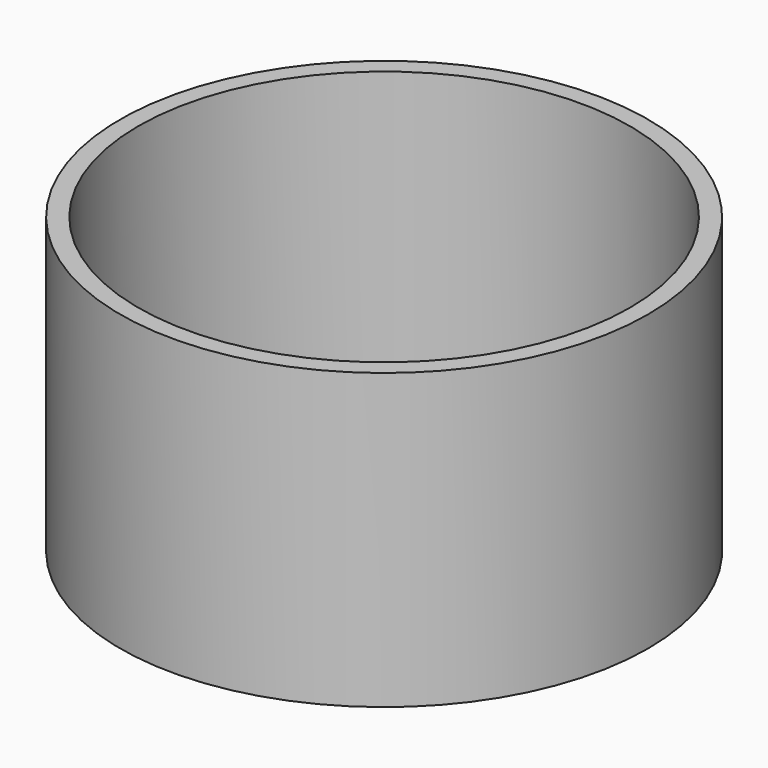
from build123d import *

# Parameters (mm, degrees)
SKETCH_R        = 17.5
PAD_DEPTH       = 20
SKETCH001_R     = 32
POCKET_DEPTH    = 18.5
SKETCH002_R     = 0.75
SKETCH002_W     = 22.6
SKETCH002_H     = 12.2
POCKET001_DEPTH = 5
SKETCH005_R     = 17.5
PAD001_DEPTH    = 18
SKETCH006_R     = 16.3
POCKET002_DEPTH = 18


with BuildPart() as part:
    # Sketch → Pad (new body)
    with BuildSketch(Plane.XY):
        Circle(SKETCH_R)
    extrude(amount=PAD_DEPTH)

    # Sketch001 (on Face3 of Pad) → Pocket (cut)
    with BuildSketch(Plane.XY.offset(20)):
        Circle(SKETCH001_R)
    extrude(amount=-POCKET_DEPTH, mode=Mode.SUBTRACT)

    # Sketch002 (on Face2 of Pocket) → Pocket001 (cut)
    with BuildSketch(Plane(origin=(0, 0, 0), x_dir=(1, 0, 0), z_dir=(0, 0, -1))):
        with Locations((-14.4, 0)):
            Circle(SKETCH002_R)
        with Locations((14.4, 0)):
            Circle(SKETCH002_R)
        Rectangle(SKETCH002_W, SKETCH002_H)
    extrude(amount=-POCKET001_DEPTH, mode=Mode.SUBTRACT)

    # Sketch005 (on Face3 of Pocket001) → Pad001 (join)
    with BuildSketch(Plane.XY.offset(1.5)):
        Circle(SKETCH005_R)
    extrude(amount=PAD001_DEPTH)

    # Sketch006 (on Face4 of Pad001) → Pocket002 (cut)
    with BuildSketch(Plane.XY.offset(19.5)):
        Circle(SKETCH006_R)
    extrude(amount=-POCKET002_DEPTH, mode=Mode.SUBTRACT)


solid = part.part
